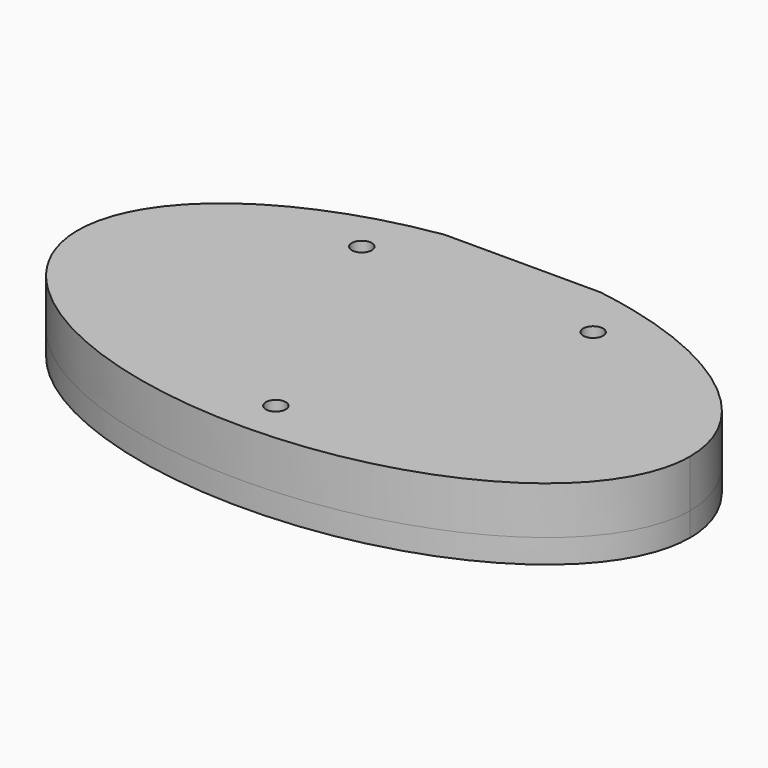
from build123d import *

# Parameters (mm, degrees)
PAD_DEPTH       = 6
POCKET_DEPTH    = 3
PAD001_DEPTH    = 3
SKETCH003_W     = 66
SKETCH003_H     = 2.77
POCKET001_DEPTH = 3
SKETCH004_W     = 19.6
SKETCH004_H     = 1
POCKET002_DEPTH = 9.001
SKETCH005_R     = 1.25
POCKET003_DEPTH = 9.001


with BuildPart() as part:
    # Sketch → Pad (new body)
    with BuildSketch(Plane.XY):
        with BuildLine():
            add(Edge.make_bspline(
                [(38.5, 0), (38.5, 38.971143), (-19.25, 19.485572), (-77, 0), (-19.25, -19.485572), (38.5, -38.971143), (38.5, 0)],
                knots=[0, 0, 0, 2.094395, 2.094395, 4.18879, 4.18879, 6.283185, 6.283185, 6.283185], degree=2, weights=[1, 0.5, 1, 0.5, 1, 0.5, 1]))
        make_face()
    extrude(amount=PAD_DEPTH)

    # Sketch001 (on Face2 of Pad) → Pocket (cut)
    with BuildSketch(Plane(origin=(0, 0, 0), x_dir=(1, 0, 0), z_dir=(0, 0, -1))):
        Polygon((9.55, -3.696801), (9.55, -21.796801), (-9.55, -21.796801), (-9.55, -3.696801), (-33, -3.696801), (-33, 6.303199), (33, 6.303199), (33, -3.696801), align=None)
    extrude(amount=-POCKET_DEPTH, mode=Mode.SUBTRACT)

    # Sketch002 (on Face2 of Pocket) → Pad001 (join)
    with BuildSketch(Plane(origin=(0, 0, 0), x_dir=(1, 0, 0), z_dir=(0, 0, -1))):
        with BuildLine():
            add(Edge.make_bspline(
                [(38.5, 0), (38.5, 38.971143), (-19.25, 19.485572), (-77, 0), (-19.25, -19.485572), (38.5, -38.971143), (38.5, 0)],
                knots=[0, 0, 0, 2.094395, 2.094395, 4.18879, 4.18879, 6.283185, 6.283185, 6.283185], degree=2, weights=[1, 0.5, 1, 0.5, 1, 0.5, 1]))
        make_face()
    extrude(amount=PAD001_DEPTH)

    # Sketch003 (on Face4 of Pad001) → Pocket001 (cut)
    with BuildSketch(Plane(origin=(0, 0, -3), x_dir=(1, 0, 0), z_dir=(0, 0, -1))):
        with Locations((0, 1.303199)):
            Rectangle(SKETCH003_W, SKETCH003_H)
    extrude(amount=-POCKET001_DEPTH, mode=Mode.SUBTRACT)

    # Sketch004 (on Face4 of Pocket001) → Pocket002 (cut, through all)
    with BuildSketch(Plane(origin=(0, 0, -3), x_dir=(1, 0, 0), z_dir=(0, 0, -1))):
        with Locations((0, -22.258868)):
            Rectangle(SKETCH004_W, SKETCH004_H)
    extrude(amount=-POCKET002_DEPTH, mode=Mode.SUBTRACT)

    # Sketch005 (on Face7 of Pocket002) → Pocket003 (cut, through all)
    with BuildSketch(Plane(origin=(0, 0, -3), x_dir=(1, 0, 0), z_dir=(0, 0, -1))):
        with Locations((-14.55, -14.696801)):
            Circle(SKETCH005_R)
        with Locations((0, 17)):
            Circle(SKETCH005_R)
        with Locations((14.55, -14.696801)):
            Circle(SKETCH005_R)
    extrude(amount=-POCKET003_DEPTH, mode=Mode.SUBTRACT)


solid = part.part
